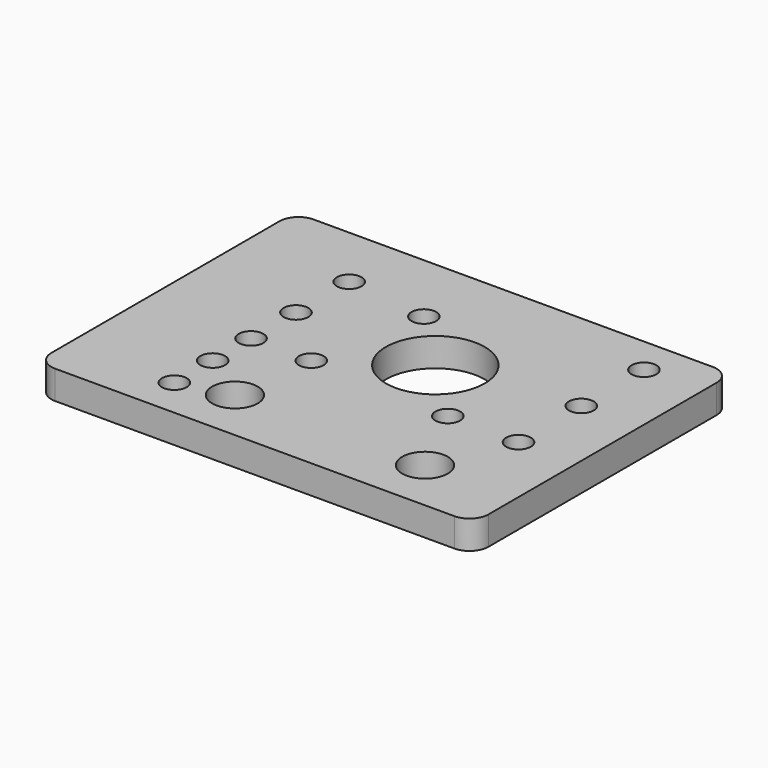
from build123d import *

# Parameters (mm, degrees)
F1_DEPTH  = 1.5
F3_R      = 1.2
F4_DEPTH  = 4
F5_R      = 0.65
F6_DEPTH  = 25
F7_R      = 0.65
F8_DEPTH  = 25
F9_R      = 0.65
F10_DEPTH = 25
F12_DEPTH = 25
F2_R      = 2.6
F13_DEPTH = 25
F11_R     = 0.65
F14_DEPTH = 25


with BuildPart() as f1:
    # F0 (on Top) → F1 (new body)
    with BuildSketch(Plane.XY):
        with BuildLine():
            Line((8.771231, 7.214553), (-12.228769, 7.214553))
            ThreePointArc((-12.228769, 7.214553), (-12.935876, 6.92166), (-13.228769, 6.214553))
            Line((-13.228769, 6.214553), (-13.228769, -8.785447))
            ThreePointArc((-13.228769, -8.785447), (-12.935876, -9.492553), (-12.228769, -9.785447))
            Line((-12.228769, -9.785447), (8.771231, -9.785447))
            ThreePointArc((8.771231, -9.785447), (9.478338, -9.492553), (9.771231, -8.785447))
            Line((9.771231, -8.785447), (9.771231, 6.214553))
            ThreePointArc((9.771231, 6.214553), (9.478338, 6.92166), (8.771231, 7.214553))
        make_face()
    extrude(amount=F1_DEPTH)

    # F3 (on face) → F4 (cut)
    with BuildSketch(Plane.XY.offset(1.5)):
        with Locations((-5, -7)):
            Circle(F3_R)
        with Locations((5, -7)):
            Circle(F3_R)
    extrude(amount=-F4_DEPTH, mode=Mode.SUBTRACT)

    # F5 (on face) → F6 (cut)
    with BuildSketch(Plane.XY.offset(1.5)):
        with Locations((-7.628769, -7.7)):
            Circle(F5_R)
        with Locations((-7.628769, -5.177216)):
            Circle(F5_R)
        with Locations((-7.628769, -2.654431)):
            Circle(F5_R)
        with Locations((-4.458791, -2.654431)):
            Circle(F5_R)
    extrude(amount=-F6_DEPTH, mode=Mode.SUBTRACT)

    # F7 (on face) → F8 (cut)
    with BuildSketch(Plane.XY.offset(1.5)):
        with Locations((6.719702, 5.25)):
            Circle(F7_R)
        with Locations((6.719702, 1.130296)):
            Circle(F7_R)
        with Locations((6.719702, -3)):
            Circle(F7_R)
    extrude(amount=-F8_DEPTH, mode=Mode.SUBTRACT)

    # F9 (on face) → F10 (cut)
    with BuildSketch(Plane.XY.offset(1.5)):
        with Locations((-7.628769, 3.8)):
            Circle(F9_R)
        with Locations((-7.628769, 0.3)):
            Circle(F9_R)
    extrude(amount=-F10_DEPTH, mode=Mode.SUBTRACT)

    # F3 (on face) → F12 (cut)
    with BuildSketch(Plane.XY.offset(1.5)):
        with Locations((-5, -7)):
            Circle(F3_R)
        with Locations((5, -7)):
            Circle(F3_R)
    extrude(amount=-F12_DEPTH, mode=Mode.SUBTRACT)

    # F2 (on face) → F13 (cut)
    with BuildSketch(Plane.XY.offset(1.5)):
        with Locations((-0.228769, 0.214553)):
            Circle(F2_R)
    extrude(amount=-F13_DEPTH, mode=Mode.SUBTRACT)

    # F11 (on face) → F14 (cut)
    with BuildSketch(Plane.XY.offset(1.5)):
        with Locations((3, -3)):
            Circle(F11_R)
        with Locations((-3.3, 3.3)):
            Circle(F11_R)
    extrude(amount=-F14_DEPTH, mode=Mode.SUBTRACT)


solid = f1.part
